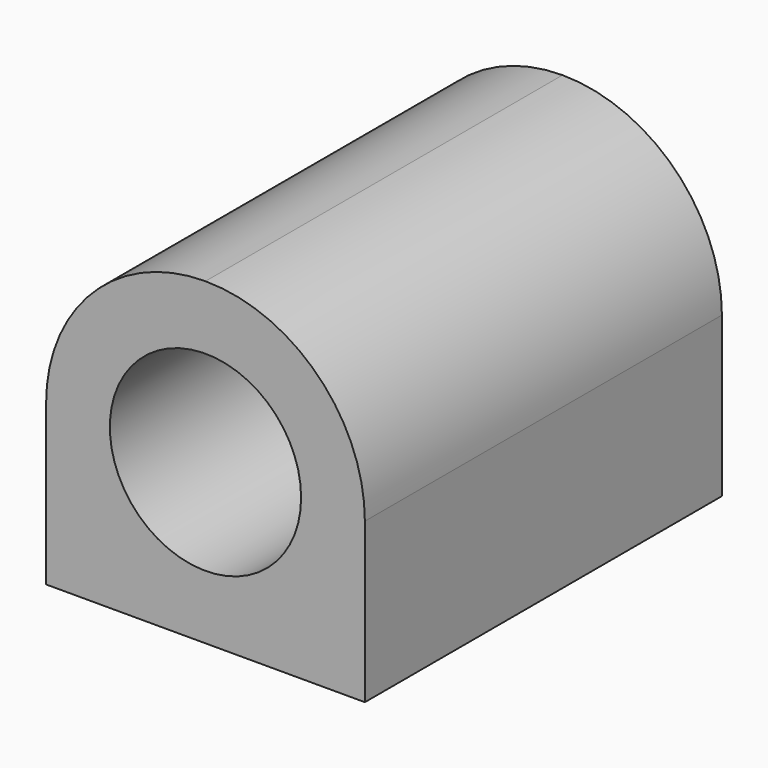
from build123d import *

# Parameters (mm, degrees)
F0_W     = 10
F0_H     = 14
F1_DEPTH = 10
F2_R     = 3
F3_DEPTH = 14.001


with BuildPart() as f1:
    # F0 (on Top) → F1 (new body)
    with BuildSketch(Plane.XY):
        Rectangle(F0_W, F0_H)
    extrude(amount=F1_DEPTH)

    # F2 (on face) → F3 (cut, through all)
    with BuildSketch(Plane.XZ.offset(7)):
        with Locations((0, 5)):
            Circle(F2_R)
        with BuildLine():
            ThreePointArc((-5, 5), (-3.535534, 8.535534), (0, 10))
            Line((0, 10), (-5, 10))
            Line((-5, 10), (-5, 5))
        make_face()
        with BuildLine():
            Line((5, 10), (0, 10))
            ThreePointArc((0, 10), (3.535534, 8.535534), (5, 5))
            Line((5, 5), (5, 10))
        make_face()
    extrude(amount=-F3_DEPTH, mode=Mode.SUBTRACT)


solid = f1.part
